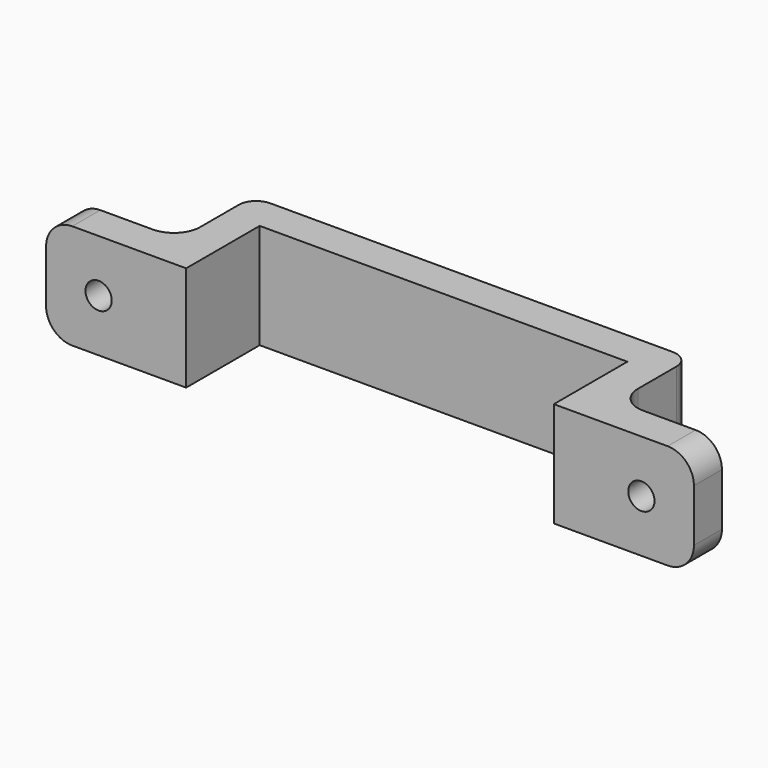
from build123d import *

# Parameters (mm, degrees)
F1_DEPTH = 12
F3_D     = 3
F3_DEPTH = 25
F4_R     = 3
F5_R     = 2


with BuildPart() as f1:
    # F0 (on Top) → F1 (new body)
    with BuildSketch(Plane.XY):
        Polygon((17.880361, 2.160541), (5.880361, 2.160541), (5.880361, -1.839459), (21.880361, -1.839459), (21.880361, 8.660541), (63.880361, 8.660541), (63.880361, -1.839459), (79.880361, -1.839459), (79.880361, 2.160541), (67.880361, 2.160541), (67.880361, 12.660541), (17.880361, 12.660541), align=None)
    extrude(amount=F1_DEPTH)

    # F3
    with Locations(Plane.XZ.offset(1.839459)):
        with Locations((11.880361, 6), (73.880361, 6)):
            Hole(F3_D / 2, depth=F3_DEPTH)

    # F4
    f4_edges = [f1.edges().sort_by_distance(p)[0] for p in [
        (67.880361, 2.160541, 6),
        (79.880361, 0.160541, 12),
        (79.880361, 0.160541, 0),
        (5.880361, 0.160541, 0),
        (17.880361, 2.160541, 6),
        (5.880361, 0.160541, 12),
    ]]
    fillet(f4_edges, radius=F4_R)

    # F5
    f5_edges = [f1.edges().sort_by_distance(p)[0] for p in [
        (17.880361, 12.660541, 6),
        (67.880361, 12.660541, 6),
    ]]
    fillet(f5_edges, radius=F5_R)


solid = f1.part
